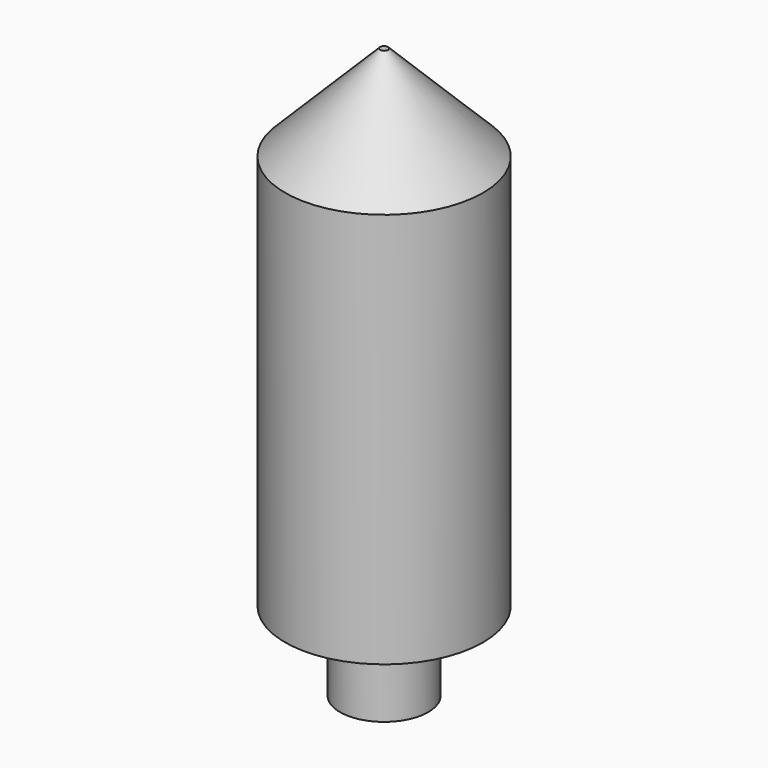
from build123d import *

# Parameters (mm, degrees)
F0_R     = 31.75
F1_DEPTH = 127
F2_R     = 31.75
F3_DEPTH = 30.48
F4_SIZE  = 30.48
F5_R     = 14.175594
F6_DEPTH = 25.4


with BuildPart() as f1:
    # F0 (on Top) → F1 (new body)
    with BuildSketch(Plane.XY):
        Circle(F0_R)
    extrude(amount=F1_DEPTH)

    # F2 (on face) → F3 (join)
    with BuildSketch(Plane.XY.offset(127)):
        Circle(F2_R)
    extrude(amount=F3_DEPTH)

    # F4
    f4_edges = [f1.edges().sort_by_distance(p)[0] for p in [
        (-31.75, 0, 157.48),
    ]]
    chamfer(f4_edges, length=F4_SIZE)

    # F5 (on face) → F6 (join)
    with BuildSketch(Plane(origin=(0, 0, 0), x_dir=(1, 0, 0), z_dir=(0, 0, -1))):
        Circle(F5_R)
    extrude(amount=F6_DEPTH)


solid = f1.part
